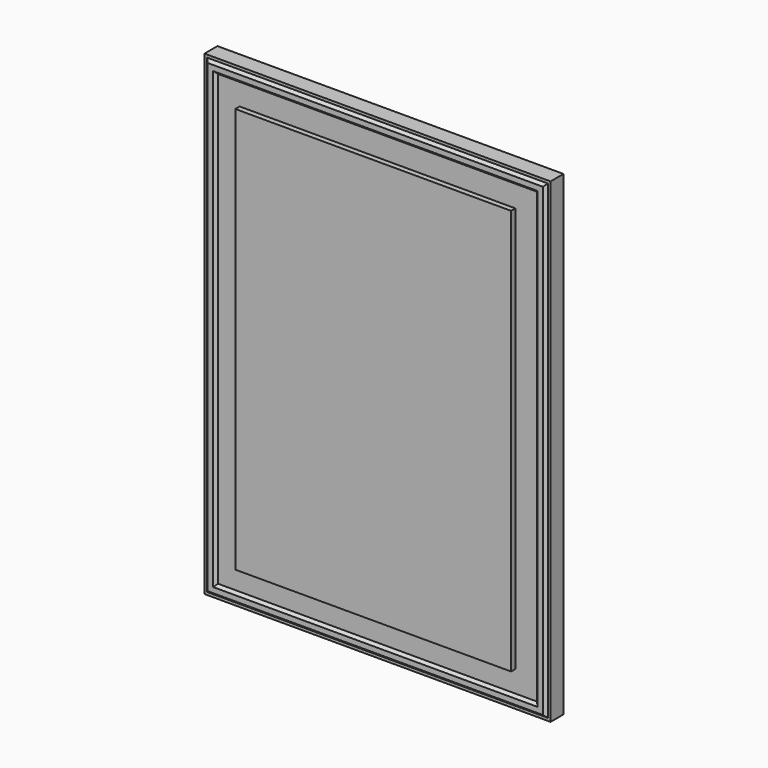
from build123d import *

# Parameters (mm, degrees)
F0_W     = 203.2
F0_H     = 558.8
F1_DEPTH = 25.4


with BuildPart() as f1:
    # F0 (on Front) → F1 (new body)
    with BuildSketch(Plane.XZ):
        with Locations((101.6, 0)):
            Rectangle(F0_W, F0_H)
    extrude(amount=F1_DEPTH)

    # F4: sweep along a path in F3
    with BuildLine(Plane.XZ.offset(25.4)) as f4_path:
        Line((0, -238.125), (161.925, -238.125))
        Line((161.925, -238.125), (161.925, 238.125))
        Line((161.925, 238.125), (0, 238.125))
    # F2 (on Right) → F4 (sweep, cut)
    with BuildSketch(Plane.YZ):
        Polygon((-19.05, -263.525), (-19.05, -238.125), (-25.4, -238.125), (-25.4, -279.4), (-19.05, -279.4), (-19.05, -276.225), (-22.225, -273.05), (-22.225, -266.7), align=None)
    sweep(path=f4_path.line, transition=Transition.RIGHT, mode=Mode.SUBTRACT)

    # F5: F1 across plane


with BuildPart() as f1_1:
    add(f1.part)
    add(f1.part.mirror(Plane.YZ))


solid = f1_1.part
